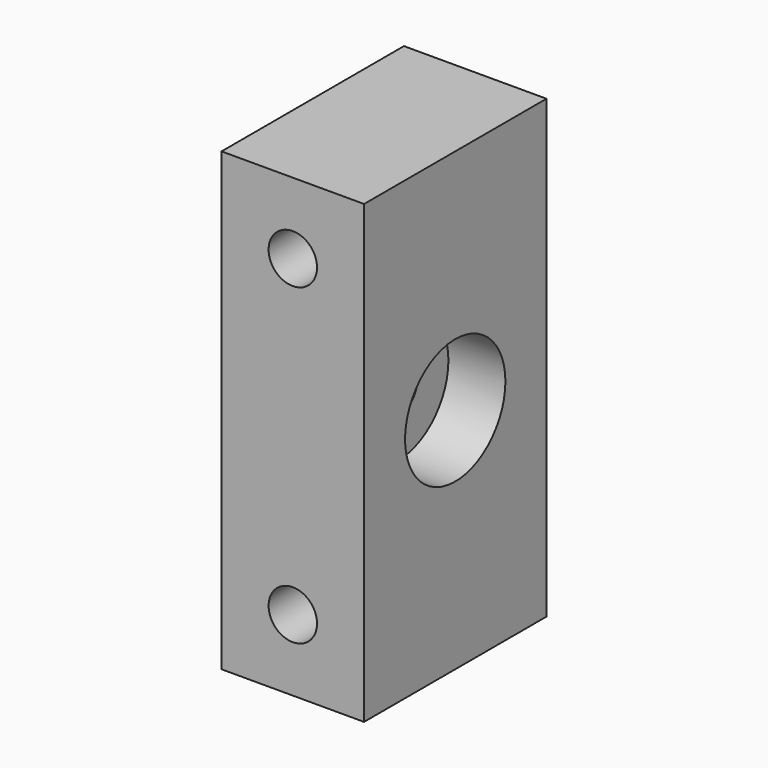
from build123d import *

# Parameters (mm, degrees)
F0_W          = 25
F0_H          = 80
F0_R          = 4.25
F1_DEPTH      = 20
F1_DEPTH_BACK = 20
F2_R          = 4.25
F3_DEPTH      = 12.5
F4_R          = 11
F5_DEPTH      = 10
F6_R          = 4.25
F7_DEPTH      = 25


with BuildPart() as f1:
    # F0 (on Front) → F1 (new body, two sides)
    with BuildSketch(Plane.XZ) as f1_sk:
        Rectangle(F0_W, F0_H)
        with Locations((0, -27.5)):
            Circle(F0_R, mode=Mode.SUBTRACT)
        with Locations((0, 27.5)):
            Circle(F0_R, mode=Mode.SUBTRACT)
    extrude(amount=F1_DEPTH)
    extrude(f1_sk.sketch, amount=-F1_DEPTH_BACK)

    # F2 (on Right) → F3 (cut, through all)
    with BuildSketch(Plane.YZ):
        Circle(F2_R)
    extrude(amount=-F3_DEPTH, mode=Mode.SUBTRACT)

    # F4 (on face) → F5 (cut)
    with BuildSketch(Plane.YZ.offset(12.5)):
        Circle(F4_R)
    extrude(amount=-F5_DEPTH, mode=Mode.SUBTRACT)

    # F6 (on face) → F7 (cut)
    with BuildSketch(Plane.YZ.offset(12.5)):
        Circle(F6_R)
    extrude(amount=-F7_DEPTH, mode=Mode.SUBTRACT)


solid = f1.part
